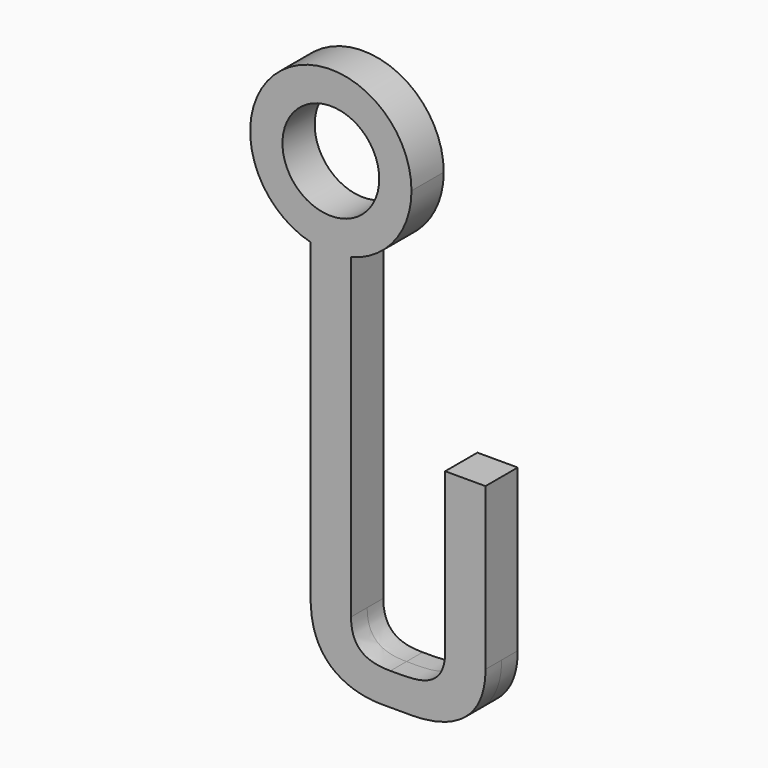
from build123d import *

# Parameters (mm, degrees)
F0_R     = 76.2
F0_W     = 63.5
F0_H     = 254
F1_DEPTH = 31.75


with BuildPart() as f1:
    # F0 (on Front) → F1 (new body, symmetric)
    with BuildSketch(Plane.XZ):
        with BuildLine():
            ThreePointArc((127, 126.683615), (-77.771299, 227.085931), (-31.75, 3.716394))
            Line((-31.75, 3.716394), (-31.75, 12.832179))
            Line((-31.75, 12.832179), (31.75, 12.832179))
            Line((31.75, 12.832179), (31.75, 3.716394))
            ThreePointArc((31.75, 3.716394), (100.402316, 48.912316), (127, 126.683615))
        make_face()
        with Locations((0, 126.683615)):
            Circle(F0_R, mode=Mode.SUBTRACT)
        with BuildLine():
            Line((-31.75, 12.832179), (-31.75, 3.716394))
            ThreePointArc((-31.75, 3.716394), (0, -0.316385), (31.75, 3.716394))
            Line((31.75, 3.716394), (31.75, 12.832179))
            Line((31.75, 12.832179), (-31.75, 12.832179))
        make_face()
        with BuildLine():
            Line((-31.75, 3.716394), (-31.75, -495.167821))
            Line((-31.75, -495.167821), (31.75, -495.167821))
            Line((31.75, -495.167821), (31.75, 3.716394))
            ThreePointArc((31.75, 3.716394), (0, -0.316385), (-31.75, 3.716394))
        make_face()
        with BuildLine():
            Line((31.75, -495.167821), (-31.75, -495.167821))
            add(Edge.make_bspline(
                [(-31.75, -495.167821), (-29.964447, -578.603804), (31.302542, -599.725057), (78.427755, -600.460852)],
                knots=[0, 0, 0, 0, 152.4, 152.4, 152.4, 152.4], degree=3))
            Line((78.427755, -600.460852), (78.427755, -549.660852))
            Line((78.427755, -549.660852), (93.781289, -549.660852))
            add(Edge.make_bspline(
                [(31.75, -495.167821), (31.867599, -545.258013), (67.827688, -549.394052), (93.781289, -549.660852)],
                knots=[0, 0, 0, 0, 79.40771, 79.40771, 79.40771, 79.40771], degree=3))
        make_face()
        with BuildLine():
            Line((78.427755, -549.660852), (78.427755, -600.460852))
            Line((78.427755, -600.460852), (129.227755, -600.460852))
            Line((129.227755, -600.460852), (129.227755, -549.660852))
            Line((129.227755, -549.660852), (103.827755, -549.660852))
            add(Edge.make_bspline(
                [(93.781289, -549.660852), (97.360506, -549.697646), (100.749413, -549.660852), (103.827755, -549.660852)],
                knots=[79.40771, 79.40771, 79.40771, 79.40771, 90.358692, 90.358692, 90.358692, 90.358692], degree=3))
            Line((93.781289, -549.660852), (78.427755, -549.660852))
        make_face()
        with BuildLine():
            add(Edge.make_bspline(
                [(103.827755, -549.660852), (136.557577, -549.660852), (177.648615, -549.641301), (180.027755, -498.860852)],
                knots=[0, 0, 0, 0, 91.581002, 91.581002, 91.581002, 91.581002], degree=3))
            Line((103.827755, -549.660852), (129.227755, -549.660852))
            Line((129.227755, -549.660852), (129.227755, -600.460852))
            add(Edge.make_bspline(
                [(129.227755, -600.460852), (155.484631, -600.164809), (243.265705, -594.734569), (243.527755, -498.860852)],
                knots=[0, 0, 0, 0, 152.928251, 152.928251, 152.928251, 152.928251], degree=3))
            Line((243.527755, -498.860852), (180.027755, -498.860852))
        make_face()
        with Locations((211.777755, -371.860852)):
            Rectangle(F0_W, F0_H)
    extrude(amount=F1_DEPTH, both=True)


solid = f1.part
